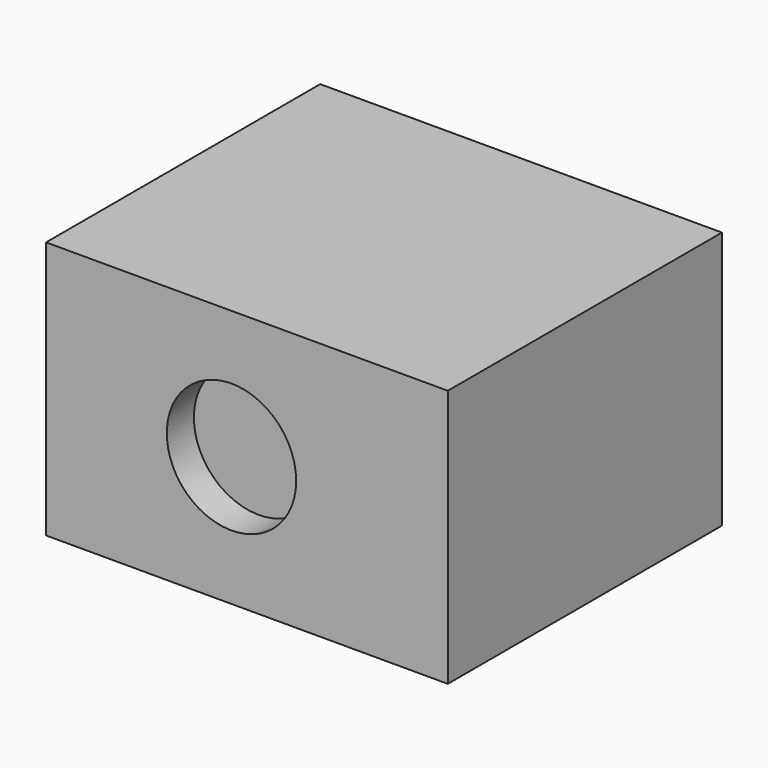
from build123d import *

# Parameters (mm, degrees)
F0_W     = 59.328676
F0_H     = 50.602824
F1_DEPTH = 38.109079
F2_R     = 9.555007
F3_DEPTH = 5.004772


with BuildPart() as f1:
    # F0 (on Top) → F1 (new body)
    with BuildSketch(Plane.XY):
        Rectangle(F0_W, F0_H)
    extrude(amount=F1_DEPTH)

    # F2 (on face) → F3 (cut)
    with BuildSketch(Plane.XZ.offset(25.301412)):
        with Locations((-2.283148, 19.106679)):
            Circle(F2_R)
    extrude(amount=-F3_DEPTH, mode=Mode.SUBTRACT)


solid = f1.part
